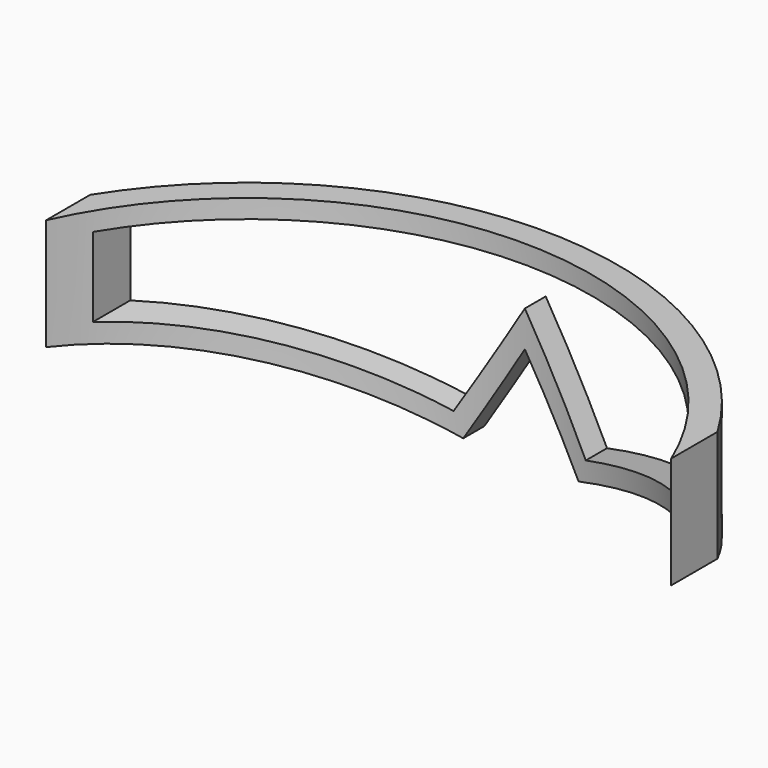
from build123d import *

# Parameters (mm, degrees)
F1_DEPTH = 75
F3_DEPTH = 200
F5_DEPTH = 100


with BuildPart() as f1:
    # F0 (on Front) → F1 (new body, symmetric)
    with BuildSketch(Plane.XZ):
        Polygon((85.300012, 25.884279), (0.300012, 25.884279), (-84.699988, 25.884279), (-84.699988, -4.115721), (-15.266005, -24.761366), (0.300012, 0.884279), (15.866029, -24.761366), (85.300012, -4.115721), align=None)
    extrude(amount=F1_DEPTH, both=True)

    # F2 (on face) → F3 (cut)
    with BuildSketch(Plane.XZ.offset(75)):
        Polygon((-17.53865, -18.869264), (0.300012, 10.520655), (18.138673, -18.869264), (80.300012, -0.386082), (80.300012, 20.884279), (-79.699988, 20.884279), (-79.699988, -0.386082), align=None)
    extrude(amount=-F3_DEPTH, mode=Mode.SUBTRACT)

    # F4 (on face) → F5 (intersect)
    with BuildSketch(Plane.XY.offset(25.884279)):
        with BuildLine():
            Line((92.307648, -27.267169), (99.30098, -26.961725))
            ThreePointArc((99.30098, -26.961725), (-3.949265, 68.282407), (-99.880233, -34.330005))
            Line((-99.880233, -34.330005), (-92.883447, -34.117915))
            ThreePointArc((-92.883447, -34.117915), (-3.690492, 61.287192), (92.307648, -27.267169))
        make_face()
    extrude(amount=-F5_DEPTH, mode=Mode.INTERSECT)


solid = f1.part
